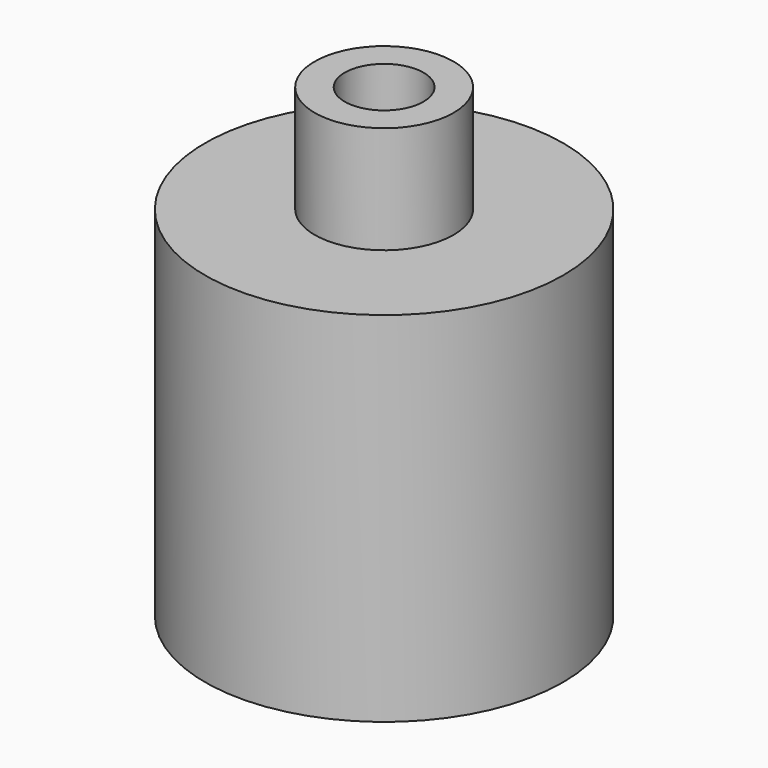
from build123d import *

# Parameters (mm, degrees)
SKETCH222_R     = 2.5
SKETCH222_R_2   = 0.5
PAD134_DEPTH    = 1
SKETCH210_R     = 0.97
SKETCH210_R_2   = 0.55
PAD136_DEPTH    = 1.5
SKETCH306_R     = 2.5
SKETCH306_R_2   = 1.5
PAD211_DEPTH    = 4
CHAMFER003_SIZE = 0.95


with BuildPart() as part:
    # Sketch222 → Pad134 (new body)
    with BuildSketch(Plane.XY):
        Circle(SKETCH222_R)
        Circle(SKETCH222_R_2, mode=Mode.SUBTRACT)
    extrude(amount=PAD134_DEPTH)

    # Sketch210 (on Face4 of Pad134) → Pad136 (join)
    with BuildSketch(Plane.XY.offset(1)):
        Circle(SKETCH210_R)
        Circle(SKETCH210_R_2, mode=Mode.SUBTRACT)
    extrude(amount=PAD136_DEPTH)

    # Sketch306 (on Face2 of Pad136) → Pad211 (join)
    with BuildSketch(Plane(origin=(0, 0, 0), x_dir=(1, 0, 0), z_dir=(0, 0, -1))):
        Circle(SKETCH306_R)
        Circle(SKETCH306_R_2, mode=Mode.SUBTRACT)
    extrude(amount=PAD211_DEPTH)

    # Chamfer003
    chamfer003_edges = [part.edges().sort_by_distance(p)[0] for p in [
        (-1.5, 0, 0),
    ]]
    chamfer(chamfer003_edges, length=CHAMFER003_SIZE)


with BuildPart() as part_1:
    # Body031 placement: moved
    add(part.part.moved(Location((0, 0, -2.2))))


solid = part_1.part
